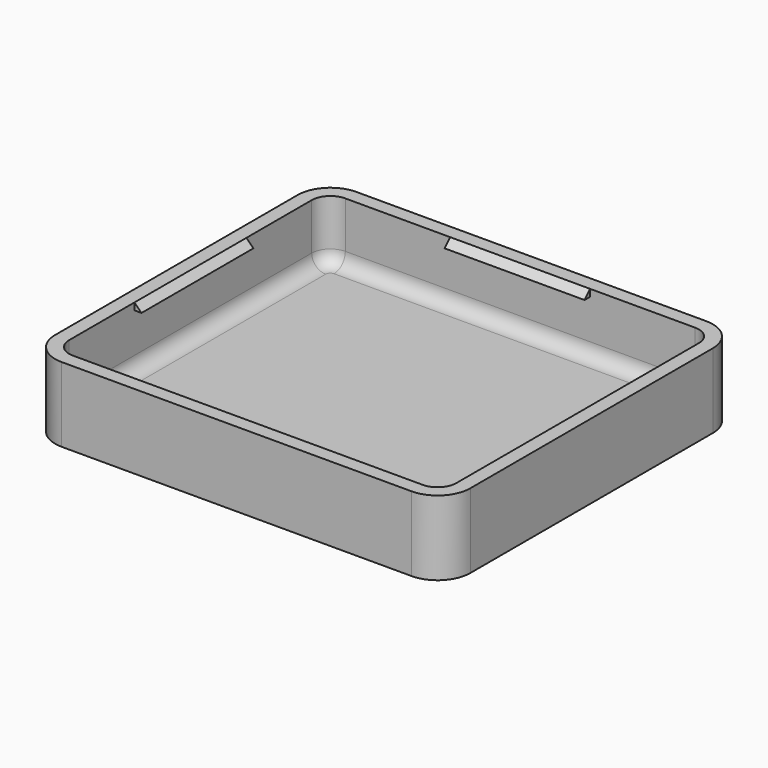
from build123d import *

# Parameters (mm, degrees)
PAD001_DEPTH            = 15
PAD_DEPTH               = 16
PAD002_DEPTH            = 3
PAD003_DEPTH            = 15
PAD001_MIRRORED_2_DEPTH = 15
PAD_MIRRORED_2_DEPTH    = 16
PAD002_MIRRORED_2_DEPTH = 3
PAD003_MIRRORED_2_DEPTH = 15
FILLET_R                = 3


with BuildPart() as part:
    # Sketch001 → Pad001 (new body)
    with BuildSketch(Plane(origin=(-41.5, 0, 0), x_dir=(-1, 0, 0), z_dir=(0, 1, 0))):
        Polygon((0, 0), (-1.5, -1.5), (0, -1.5), align=None)
    pad001 = extrude(amount=PAD001_DEPTH)

    # Sketch → Pad (join)
    with BuildSketch(Plane.XY):
        with BuildLine():
            Line((0, 36.5), (-37.5, 36.5))
            ThreePointArc((-37.5, 36.5), (-40.328427, 35.328427), (-41.5, 32.5))
            Line((-41.5, 32.5), (-41.5, 0))
            Line((-41.5, 0), (-44.5, 0))
            Line((-44.5, 0), (-44.5, 32.5))
            ThreePointArc((-37.5, 39.5), (-42.449747, 37.449747), (-44.5, 32.5))
            Line((-37.5, 39.5), (0, 39.5))
            Line((0, 36.5), (0, 39.5))
        make_face()
    pad = extrude(amount=-PAD_DEPTH)

    # Sketch002 (on Face14 of Pad) → Pad002 (join)
    with BuildSketch(Plane(origin=(-41.5, 0, -16), x_dir=(-1, 0, 0), z_dir=(0, 0, -1))):
        with BuildLine():
            Line((-41.5, 39.5), (-4, 39.5))
            ThreePointArc((3, 32.5), (0.949747, 37.449747), (-4, 39.5))
            Line((3, 32.5), (3, 0))
            Line((3, 0), (-41.5, 0))
            Line((-41.5, 0), (-41.5, 39.5))
        make_face()
    pad002 = extrude(amount=-PAD002_DEPTH)

    # Sketch003 (on Face6 of Pad002) → Pad003 (join)
    with BuildSketch(Plane(origin=(0, 36.5, 0), x_dir=(0, 1, 0), z_dir=(-1, 0, 0))):
        Polygon((0, 0), (-1.5, 1.5), (0, 1.5), align=None)
    pad003 = extrude(amount=PAD003_DEPTH)

    # Sketch001 Mirrored 2 → Pad001 Mirrored 2 (add)
    with BuildSketch(Plane(origin=(-41.5, 0, 0), x_dir=(-1, 0, 0), z_dir=(0, 1, 0))):
        Polygon((0, 0), (-1.5, -1.5), (0, -1.5), align=None)
    pad001_mirrored_2 = extrude(amount=-PAD001_MIRRORED_2_DEPTH)

    # Sketch Mirrored 2 → Pad Mirrored 2 (add)
    with BuildSketch(Plane(origin=(0, 0, 0), x_dir=(1, 0, 0), z_dir=(0, 0, -1))):
        with BuildLine():
            Line((0, 36.5), (-37.5, 36.5))
            ThreePointArc((-37.5, 36.5), (-40.328427, 35.328427), (-41.5, 32.5))
            Line((-41.5, 32.5), (-41.5, 0))
            Line((-41.5, 0), (-44.5, 0))
            Line((-44.5, 0), (-44.5, 32.5))
            ThreePointArc((-37.5, 39.5), (-42.449747, 37.449747), (-44.5, 32.5))
            Line((-37.5, 39.5), (0, 39.5))
            Line((0, 36.5), (0, 39.5))
        make_face()
    pad_mirrored_2 = extrude(amount=PAD_MIRRORED_2_DEPTH)

    # Sketch002 Mirrored 2 → Pad002 Mirrored 2 (add)
    with BuildSketch(Plane(origin=(-41.5, 0, -16), x_dir=(-1, 0, 0), z_dir=(0, 0, 1))):
        with BuildLine():
            Line((-41.5, 39.5), (-4, 39.5))
            ThreePointArc((3, 32.5), (0.949747, 37.449747), (-4, 39.5))
            Line((3, 32.5), (3, 0))
            Line((3, 0), (-41.5, 0))
            Line((-41.5, 0), (-41.5, 39.5))
        make_face()
    pad002_mirrored_2 = extrude(amount=PAD002_MIRRORED_2_DEPTH)

    # Sketch003 Mirrored 2 → Pad003 Mirrored 2 (add)
    with BuildSketch(Plane(origin=(0, -36.5, 0), x_dir=(0, -1, 0), z_dir=(1, 0, 0))):
        Polygon((0, 0), (-1.5, 1.5), (0, 1.5), align=None)
    pad003_mirrored_2 = extrude(amount=-PAD003_MIRRORED_2_DEPTH)

    # Mirrored001: Pad001, Pad, Pad002, Pad003, Pad001 Mirrored 2, Pad Mirrored 2, Pad002 Mirrored 2, Pad003 Mirrored 2 across YZ
    add(pad001.mirror(Plane.YZ))
    add(pad.mirror(Plane.YZ))
    add(pad002.mirror(Plane.YZ))
    add(pad003.mirror(Plane.YZ))
    add(pad001_mirrored_2.mirror(Plane.YZ))
    add(pad_mirrored_2.mirror(Plane.YZ))
    add(pad002_mirrored_2.mirror(Plane.YZ))
    add(pad003_mirrored_2.mirror(Plane.YZ))

    # Fillet
    fillet_edges = [part.edges().sort_by_distance(p)[0] for p in [
        (-41.5, 16.25, -13),
        (-40.328427, 35.328427, -13),
        (-18.75, 36.5, -13),
        (0, 18.25, -13),
        (-20.75, 0, -13),
        (41.5, 16.25, -13),
        (40.328427, 35.328427, -13),
        (18.75, 36.5, -13),
        (20.75, 0, -13),
        (41.5, -16.25, -13),
        (40.328427, -35.328427, -13),
        (18.75, -36.5, -13),
        (0, -18.25, -13),
        (-41.5, -16.25, -13),
        (-40.328427, -35.328427, -13),
        (-18.75, -36.5, -13),
    ]]
    fillet(fillet_edges, radius=FILLET_R)


solid = part.part
